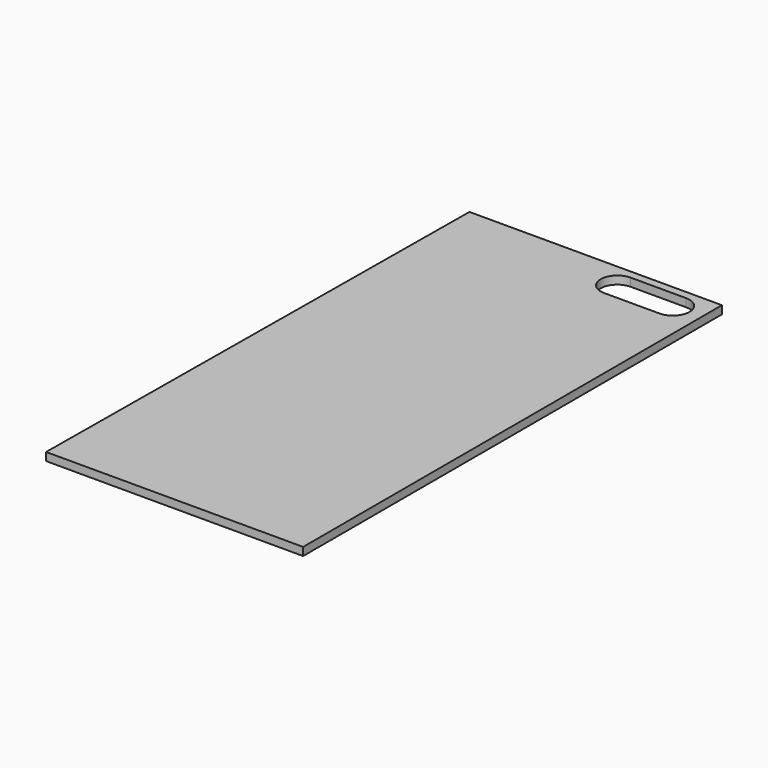
from build123d import *

# Parameters (mm, degrees)
F1_DEPTH = 1.9431
F3_DEPTH = 25.4


with BuildPart() as f1:
    # F0 (on Top) → F1 (new body)
    with BuildSketch(Plane.XY):
        Polygon((27.7205, 0), (-32.982886, 0), (-34.080576, -125.857264), (27.7205, -125.857264), align=None)
    extrude(amount=F1_DEPTH)

    # F2 (on face) → F3 (cut)
    with BuildSketch(Plane.XY.offset(1.9431)):
        with BuildLine():
            Line((7.332415, -4.307757), (7.332415, -1.955202))
            ThreePointArc((7.332415, -1.955202), (3.332973, -5.954644), (7.332415, -9.954086))
            Line((7.332415, -9.954086), (7.332415, -4.307757))
        make_face()
        Polygon((14.004417, -4.307757), (14.004417, -1.955202), (7.332415, -1.955202), (7.332415, -4.307757), (7.332415, -9.954086), (14.004417, -9.954086), align=None)
        with BuildLine():
            Line((20.676419, -1.955202), (20.676419, -4.307757))
            Line((20.676419, -4.307757), (20.676419, -9.954086))
            ThreePointArc((20.676419, -9.954086), (24.675861, -5.954644), (20.676419, -1.955202))
        make_face()
        Polygon((20.676419, -9.954086), (20.676419, -4.307757), (20.676419, -1.955202), (14.004417, -1.955202), (14.004417, -4.307757), (14.004417, -9.954086), (14.634087, -9.954086), align=None)
    extrude(amount=-F3_DEPTH, mode=Mode.SUBTRACT)


solid = f1.part
